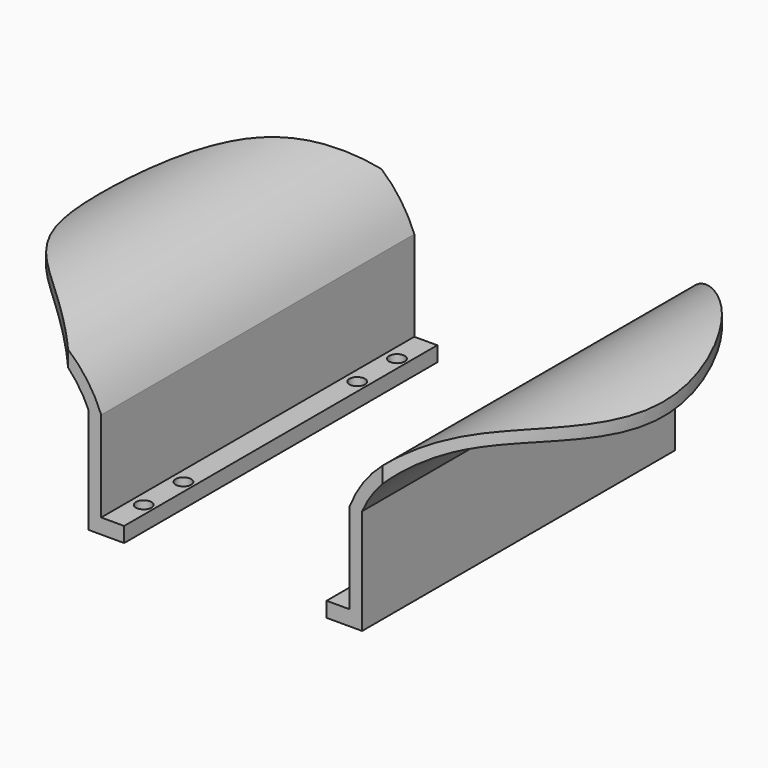
from build123d import *

# Parameters (mm, degrees)
F1_DEPTH      = 126
F1_DEPTH_BACK = 126
F5_DEPTH      = 100
F8_R          = 5
F9_DEPTH      = 25
F10_R         = 5
F11_DEPTH     = 25


with BuildPart() as f1:
    # F0 (on Front) → F1 (new body, two sides)
    with BuildSketch(Plane.XZ) as f1_sk:
        with BuildLine():
            Line((70.0443179016, -12.7403034491), (70.0443179016, 26.8103250578))
            ThreePointArc((70.0443179016, 26.8103250578), (25.7463386006, 70.4423597607), (-36.2471125971, 65.6593240018))
            Line((-36.2471125971, 65.6593240018), (-36.2471125971, 56.9420479819))
            ThreePointArc((-36.2471125971, 56.9420479819), (19.8016134759, 64.5301952868), (61.9472071227, 26.8103250578))
            Line((61.9472071227, 26.8103250578), (61.9472071227, -31.3374493738))
            Line((61.9472071227, -31.3374493738), (61.9472071227, -41.0422040633))
            Line((61.9472071227, -41.0422040633), (84.8289564794, -41.0422040633))
            Line((84.8289564794, -41.0422040633), (84.8289564794, -31.3374493738))
            Line((84.8289564794, -31.3374493738), (70.0443179016, -31.3374493738))
            Line((70.0443179016, -31.3374493738), (70.0443179016, -12.7403034491))
        make_face()
    extrude(amount=F1_DEPTH)
    extrude(f1_sk.sketch, amount=-F1_DEPTH_BACK)


with BuildPart() as f3_1:
    # F3: instance of F1
    add(f1.part.mirror(Plane.YZ.offset(150)))


with BuildPart() as f1_1:
    add(f1.part)

    # F4 (on Top) → F5 (cut)
    with BuildSketch(Plane.XY):
        with BuildLine():
            add(Edge.make_bspline(
                [(59.5972202718, -139.9387419224), (46.2002525243, -117.7525978892), (-8.6174999533, -89.2650577127), (-43.2546205209, -0.5575538298), (-8.2149928368, 93.5951721342), (58.8972329523, 126.2318861842), (104.1034380676, 199.3212678603), (-181.8700393873, 214.3898682567), (-338.7476009134, -75.782878847), (-103.5955673017, -189.7681196613), (75.8103162653, -219.4153861522), (70.2841017032, -157.6368281737), (59.5972202718, -139.9387419224)],
                knots=[0, 0, 0, 0, 0.0839806149, 0.1706775515, 0.2589786096, 0.3396205922, 0.4002639236, 0.5360209171, 0.6823742902, 0.8192433062, 0.9330079097, 1, 1, 1, 1], degree=3))
        make_face()
    extrude(amount=F5_DEPTH, mode=Mode.SUBTRACT)


with BuildPart() as f7_1:
    # F7: instance of F1
    add(f1_1.part.mirror(Plane.YZ.offset(150)))

    # F10 (on face) → F11 (cut)
    with BuildSketch(Plane.XY.offset(-31.3374493738)):
        with Locations((222.251445055, -103.2463684678)):
            Circle(F10_R)
        with Locations((222.251445055, -68.3110430837)):
            Circle(F10_R)
        with Locations((222.251445055, 68.3110430837)):
            Circle(F10_R)
        with Locations((222.251445055, 103.2463684678)):
            Circle(F10_R)
    extrude(amount=-F11_DEPTH, mode=Mode.SUBTRACT)


with BuildPart() as f1_2:
    add(f1_1.part)

    # F8 (on face) → F9 (cut)
    with BuildSketch(Plane.XY.offset(-31.3374493738)):
        with Locations((78.141272068, -101.914934814)):
            Circle(F8_R)
        with Locations((78.141272068, -69.914996624)):
            Circle(F8_R)
        with Locations((78.141272068, 69.914996624)):
            Circle(F8_R)
        with Locations((78.141272068, 101.914934814)):
            Circle(F8_R)
    extrude(amount=-F9_DEPTH, mode=Mode.SUBTRACT)


solid = Compound([f7_1.part, f1_2.part])
